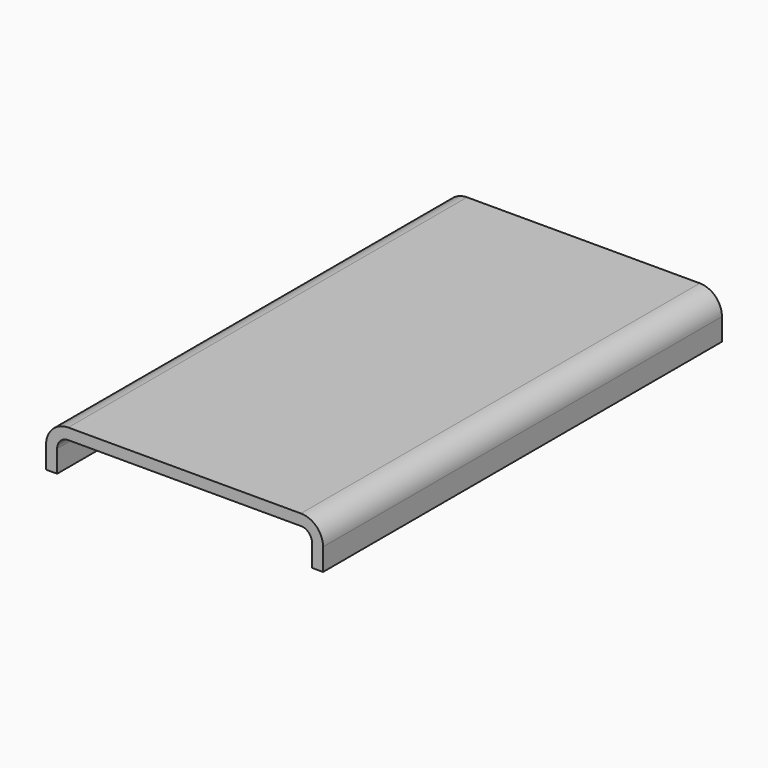
from build123d import *

# Parameters (mm, degrees)
F1_DEPTH = 45


with BuildPart() as f1:
    # F0 (on Front) → F1 (new body)
    with BuildSketch(Plane.XZ):
        with BuildLine():
            ThreePointArc((12.5, 0), (11.914214, 1.414214), (10.5, 2))
            Line((10.5, 2), (-10.5, 2))
            ThreePointArc((-10.5, 2), (-11.914214, 1.414214), (-12.5, 0))
            Line((-12.5, 0), (-12.5, -2))
            Line((-12.5, -2), (-11.5, -2))
            Line((-11.5, -2), (-11.5, 0))
            ThreePointArc((-11.5, 0), (-11.207107, 0.707107), (-10.5, 1))
            Line((-10.5, 1), (10.5, 1))
            ThreePointArc((10.5, 1), (11.207107, 0.707107), (11.5, 0))
            Line((11.5, 0), (11.5, -2))
            Line((11.5, -2), (12.5, -2))
            Line((12.5, -2), (12.5, 0))
        make_face()
    extrude(amount=F1_DEPTH)


solid = f1.part
